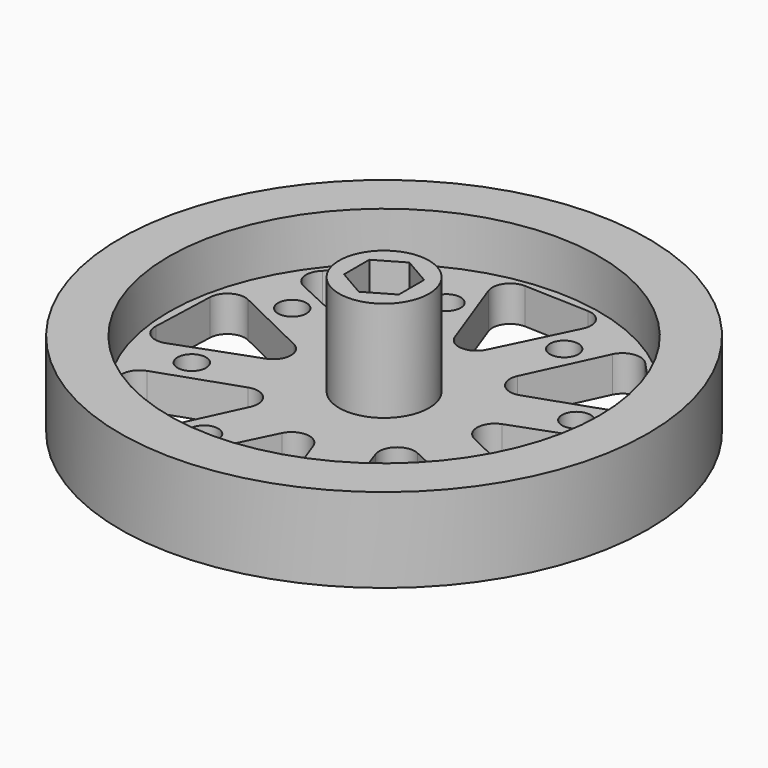
from build123d import *

# Parameters (mm, degrees)
F0_R      = 22.9997
F1_DEPTH  = 3.81
F3_R      = 4.8006
F4_DEPTH  = 14.5542
F5_R      = 3.4925
F6_DEPTH  = 7.62
F8_DEPTH  = 5.08
F9_R      = 1.4478
F10_DEPTH = 25.4
F11_R     = 1.524
F12_DEPTH = 12.7
F14_DEPTH = 12.7
F13_R     = 28.194
F13_R_2   = 22.9997
F15_DEPTH = 9.017


with BuildPart() as f1:
    # F0 (on Top) → F1 (new body)
    with BuildSketch(Plane.XY):
        Circle(F0_R)
    extrude(amount=F1_DEPTH)

    # F3 (on face) → F4 (join)
    with BuildSketch(Plane(origin=(0, 0, 0), x_dir=(1, 0, 0), z_dir=(0, 0, -1))):
        Circle(F3_R)
    extrude(amount=-F4_DEPTH)

    # F5 (on face) → F6 (cut)
    with BuildSketch(Plane(origin=(0, 0, 0), x_dir=(1, 0, 0), z_dir=(0, 0, -1))):
        Circle(F5_R)
    extrude(amount=-F6_DEPTH, mode=Mode.SUBTRACT)

    # F7 (on face) → F8 (cut)
    with BuildSketch(Plane.XY.offset(14.5542)):
        Polygon((2.925607, -1.6891), (2.925607, 1.6891), (0, 3.3782), (-2.925607, 1.6891), (-2.925607, -1.6891), (0, -3.3782), align=None)
    extrude(amount=-F8_DEPTH, mode=Mode.SUBTRACT)

    # F9 (on face) → F10 (cut)
    with BuildSketch(Plane(origin=(0, 0, 0), x_dir=(1, 0, 0), z_dir=(0, 0, -1))):
        Circle(F9_R)
    extrude(amount=-F10_DEPTH, mode=Mode.SUBTRACT)

    # F11 (on face) → F12 (cut)
    with BuildSketch(Plane(origin=(0, 0, 0), x_dir=(1, 0, 0), z_dir=(0, 0, -1))):
        with Locations((5.958469, 15.773147)):
            Circle(F11_R)
        with Locations((-6.940025, 15.366573)):
            Circle(F11_R)
        with Locations((-15.773147, 5.958469)):
            Circle(F11_R)
        with Locations((-15.366573, -6.940025)):
            Circle(F11_R)
        with Locations((-5.958469, -15.773147)):
            Circle(F11_R)
        with Locations((6.940025, -15.366573)):
            Circle(F11_R)
        with Locations((15.773147, -5.958469)):
            Circle(F11_R)
        with Locations((15.366573, 6.940025)):
            Circle(F11_R)
    extrude(amount=-F12_DEPTH, mode=Mode.SUBTRACT)

    # F2 (on face) → F14 (cut)
    with BuildSketch(Plane(origin=(0, 0, 0), x_dir=(1, 0, 0), z_dir=(0, 0, -1))):
        with BuildLine():
            Line((-2.713202, -22.21852), (4.221492, -21.967319))
            ThreePointArc((4.221492, -21.967319), (5.785648, -21.04436), (5.865456, -19.229954))
            Line((5.865456, -19.229954), (1.960866, -11.206727))
            ThreePointArc((1.960866, -11.206727), (0.150936, -10.137812), (-1.540888, -11.38527))
            Line((-1.540888, -11.38527), (-4.570992, -19.659698))
            ThreePointArc((-4.570992, -19.659698), (-4.323714, -21.433986), (-2.713202, -22.21852))
        make_face()
        with BuildLine():
            Line((6.961029, -9.140174), (10.669326, -17.133685))
            ThreePointArc((10.669326, -17.133685), (12.098789, -18.213444), (13.792343, -17.62939))
            Line((13.792343, -17.62939), (18.518286, -12.548194))
            ThreePointArc((18.518286, -12.548194), (18.97168, -10.789538), (17.745134, -9.450127))
            Line((17.745134, -9.450127), (9.310894, -6.537811))
            ThreePointArc((9.310894, -6.537811), (7.275244, -7.061788), (6.961029, -9.140174))
        make_face()
        with BuildLine():
            Line((11.38527, -1.540888), (19.659698, -4.570992))
            ThreePointArc((19.659698, -4.570992), (21.433986, -4.323714), (22.21852, -2.713202))
            Line((22.21852, -2.713202), (21.967319, 4.221492))
            ThreePointArc((21.967319, 4.221492), (21.04436, 5.785648), (19.229954, 5.865456))
            Line((19.229954, 5.865456), (11.206727, 1.960866))
            ThreePointArc((11.206727, 1.960866), (10.137812, 0.150936), (11.38527, -1.540888))
        make_face()
        with BuildLine():
            Line((9.140174, 6.961029), (17.133685, 10.669326))
            ThreePointArc((17.133685, 10.669326), (18.213444, 12.098789), (17.62939, 13.792343))
            Line((17.62939, 13.792343), (12.548194, 18.518286))
            ThreePointArc((12.548194, 18.518286), (10.789538, 18.97168), (9.450127, 17.745134))
            Line((9.450127, 17.745134), (6.537811, 9.310894))
            ThreePointArc((6.537811, 9.310894), (7.061788, 7.275244), (9.140174, 6.961029))
        make_face()
        with BuildLine():
            Line((1.540888, 11.38527), (4.570992, 19.659698))
            ThreePointArc((4.570992, 19.659698), (4.323714, 21.433986), (2.713202, 22.21852))
            Line((2.713202, 22.21852), (-4.221492, 21.967319))
            ThreePointArc((-4.221492, 21.967319), (-5.785648, 21.04436), (-5.865456, 19.229954))
            Line((-5.865456, 19.229954), (-1.960866, 11.206727))
            ThreePointArc((-1.960866, 11.206727), (-0.150936, 10.137812), (1.540888, 11.38527))
        make_face()
        with BuildLine():
            Line((-6.961029, 9.140174), (-10.669326, 17.133685))
            ThreePointArc((-10.669326, 17.133685), (-12.098789, 18.213444), (-13.792343, 17.62939))
            Line((-13.792343, 17.62939), (-18.518286, 12.548194))
            ThreePointArc((-18.518286, 12.548194), (-18.97168, 10.789538), (-17.745134, 9.450127))
            Line((-17.745134, 9.450127), (-9.310894, 6.537811))
            ThreePointArc((-9.310894, 6.537811), (-7.275244, 7.061788), (-6.961029, 9.140174))
        make_face()
        with BuildLine():
            Line((-11.38527, 1.540888), (-19.659698, 4.570992))
            ThreePointArc((-19.659698, 4.570992), (-21.433986, 4.323714), (-22.21852, 2.713202))
            Line((-22.21852, 2.713202), (-21.967319, -4.221492))
            ThreePointArc((-21.967319, -4.221492), (-21.04436, -5.785648), (-19.229954, -5.865456))
            Line((-19.229954, -5.865456), (-11.206727, -1.960866))
            ThreePointArc((-11.206727, -1.960866), (-10.137812, -0.150936), (-11.38527, 1.540888))
        make_face()
        with BuildLine():
            Line((-9.140174, -6.961029), (-17.133685, -10.669326))
            ThreePointArc((-17.133685, -10.669326), (-18.213444, -12.098789), (-17.62939, -13.792343))
            Line((-17.62939, -13.792343), (-12.548194, -18.518286))
            ThreePointArc((-12.548194, -18.518286), (-10.789538, -18.97168), (-9.450127, -17.745134))
            Line((-9.450127, -17.745134), (-6.537811, -9.310894))
            ThreePointArc((-6.537811, -9.310894), (-7.061788, -7.275244), (-9.140174, -6.961029))
        make_face()
    extrude(amount=-F14_DEPTH, mode=Mode.SUBTRACT)


with BuildPart() as f15:
    # F13 (on face) → F15 (new body)
    with BuildSketch(Plane(origin=(0, 0, 0), x_dir=(1, 0, 0), z_dir=(0, 0, -1))):
        Circle(F13_R)
        Circle(F13_R_2, mode=Mode.SUBTRACT)
    extrude(amount=-F15_DEPTH)


solid = Compound([f1.part, f15.part])
